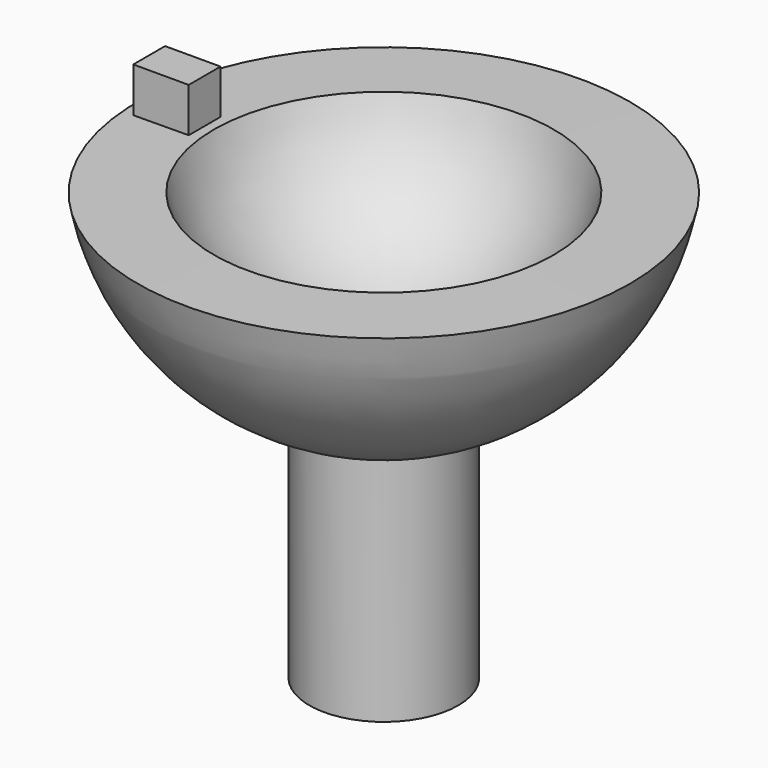
from build123d import *

# Parameters (mm, degrees)
F2_R     = 9.910434
F3_DEPTH = 72.889528
F4_DEPTH = 2.54
F5_W     = 9.451408
F5_H     = 6.77502
F6_DEPTH = 35.814


with BuildPart() as f1:
    # F0 (on Front) → F1 (revolve)
    with BuildSketch(Plane.XZ):
        with BuildLine():
            ThreePointArc((28.967492, 28.270211), (18.214134, 12.333816), (0, 6.181683))
            Line((0, 6.181683), (0, -44.618317))
            Line((0, -44.618317), (12.7, -44.618317))
            Line((12.7, -44.618317), (12.7, -4.587781))
            ThreePointArc((12.7, -4.587781), (31.871676, 7.74599), (41.975688, 28.180862))
            Line((41.975688, 28.180862), (28.967492, 28.270211))
        make_face()
    revolve(axis=Axis((0, 0, -19.218317), (0, 0, -1)))

    # F2 (on face) → F3 (cut, through all)
    with BuildSketch(Plane(origin=(0, 0, -44.618317), x_dir=(1, 0, 0), z_dir=(0, 0, -1))):
        Circle(F2_R)
    extrude(amount=-F3_DEPTH, mode=Mode.SUBTRACT)

    # F2 (on face) → F4 (join)
    with BuildSketch(Plane(origin=(0, 0, -44.618317), x_dir=(1, 0, 0), z_dir=(0, 0, -1))):
        Circle(F2_R)
    extrude(amount=-F4_DEPTH)

    # F5 (on Top) → F6 (join)
    with BuildSketch(Plane.XY):
        with Locations((-35.275344, 0)):
            Rectangle(F5_W, F5_H)
    extrude(amount=F6_DEPTH)


solid = f1.part
